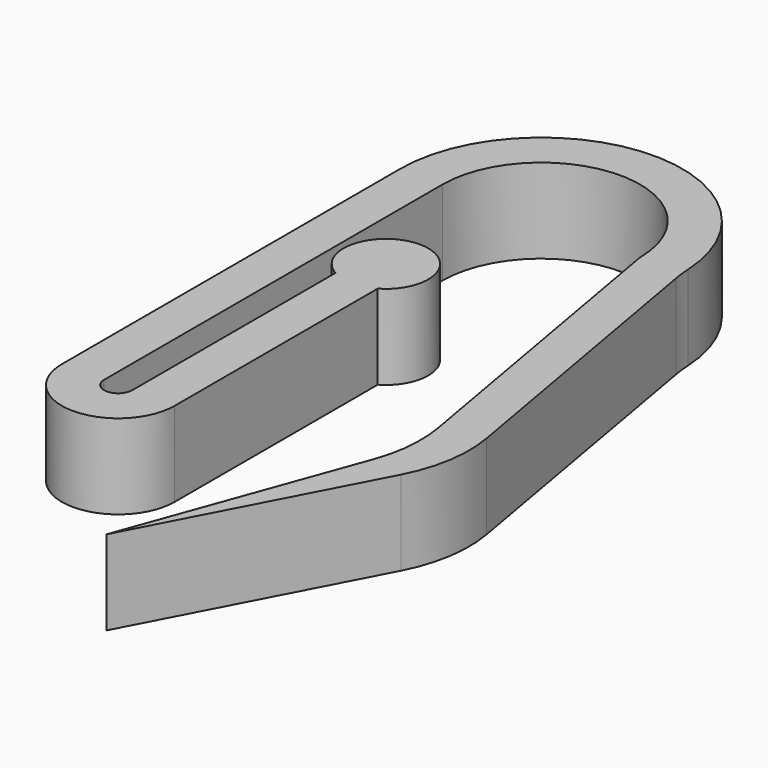
from build123d import *

# Parameters (mm, degrees)
F1_DEPTH = 3


with BuildPart() as f1:
    # F0 (on Top) → F1 (new body)
    with BuildSketch(Plane.XY):
        with BuildLine():
            Line((0, 15), (0, 0))
            ThreePointArc((0, 0), (2, -2), (4, 0))
            Line((4, 0), (4, 9))
            ThreePointArc((4, 9), (3.25, 11.799038), (2.5, 9))
            Line((2.5, 9), (2.5, 0))
            ThreePointArc((2.5, 0), (2, -0.5), (1.5, 0))
            Line((1.5, 0), (1.5, 15))
            ThreePointArc((1.5, 15), (4.963858, 18.499813), (8.499254, 15.07228))
            ThreePointArc((8.499254, 15.07228), (8.503799, 14.995493), (8.514233, 14.919283))
            Line((8.514233, 14.919283), (10.524782, 3.516891))
            ThreePointArc((10.524782, 3.516891), (10.581717, 2.212872), (10.299206, 0.93855))
            Line((10.299206, 0.93855), (7.337225, -7.199427))
            Line((7.337225, -7.199427), (11.467051, 0.687988))
            ThreePointArc((11.467051, 0.687988), (11.978405, 2.240785), (11.961545, 3.875525))
            Line((11.961545, 3.875525), (10.062858, 14.643515))
            ThreePointArc((10.062858, 14.643515), (10.018709, 14.948626), (9.993448, 15.255878))
            ThreePointArc((9.993448, 15.255878), (4.872019, 19.998362), (0, 15))
        make_face()
        with BuildLine():
            Line((0, 15), (0, 0))
            ThreePointArc((0, 0), (2, -2), (4, 0))
            Line((4, 0), (4, 9))
            ThreePointArc((4, 9), (3.25, 11.799038), (2.5, 9))
            Line((2.5, 9), (2.5, 0))
            ThreePointArc((2.5, 0), (2, -0.5), (1.5, 0))
            Line((1.5, 0), (1.5, 15))
            ThreePointArc((1.5, 15), (4.963858, 18.499813), (8.499254, 15.07228))
            ThreePointArc((8.499254, 15.07228), (8.503799, 14.995493), (8.514233, 14.919283))
            Line((8.514233, 14.919283), (10.524782, 3.516891))
            ThreePointArc((10.524782, 3.516891), (10.581717, 2.212872), (10.299206, 0.93855))
            Line((10.299206, 0.93855), (7.337225, -7.199427))
            Line((7.337225, -7.199427), (11.467051, 0.687988))
            ThreePointArc((11.467051, 0.687988), (11.978405, 2.240785), (11.961545, 3.875525))
            Line((11.961545, 3.875525), (10.062858, 14.643515))
            ThreePointArc((10.062858, 14.643515), (10.018709, 14.948626), (9.993448, 15.255878))
            ThreePointArc((9.993448, 15.255878), (4.872019, 19.998362), (0, 15))
        make_face()
    extrude(amount=F1_DEPTH)


solid = f1.part
